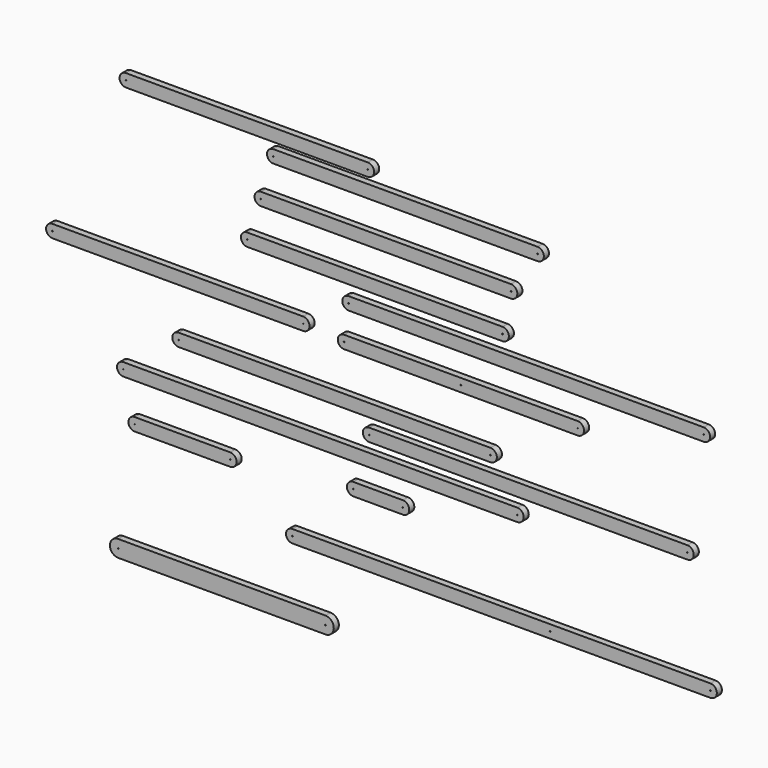
from build123d import *

# Parameters (mm, degrees)
F0_R     = 1.5875
F1_DEPTH = 3.175
F2_DEPTH = 25.4


with BuildPart() as f1:
    # F0 (on Front) → F1 (new body)
    with BuildSketch(Plane.XZ):
        with BuildLine():
            Line((922.116208, 6.153064), (-76.103792, 6.153064))
            ThreePointArc((-76.103792, 6.153064), (-101.503792, -19.246936), (-76.103792, -44.646936))
            Line((-76.103792, -44.646936), (922.116208, -44.646936))
            ThreePointArc((922.116208, -44.646936), (947.516208, -19.246936), (922.116208, 6.153064))
        make_face()
        with Locations((-76.103792, -19.246936)):
            Circle(F0_R, mode=Mode.SUBTRACT)
        with Locations((922.116208, -19.246936)):
            Circle(F0_R, mode=Mode.SUBTRACT)
        with BuildLine():
            Line((1718.410377, -1137.944055), (49.630377, -1137.944055))
            ThreePointArc((49.630377, -1137.944055), (24.230377, -1163.344055), (49.630377, -1188.744055))
            Line((49.630377, -1188.744055), (1718.410377, -1188.744055))
            ThreePointArc((1718.410377, -1188.744055), (1743.810377, -1163.344055), (1718.410377, -1137.944055))
        make_face()
        with Locations((49.630377, -1163.344055)):
            Circle(F0_R, mode=Mode.SUBTRACT)
        with Locations((1078.116298, -1163.344055)):
            Circle(F0_R, mode=Mode.SUBTRACT)
        with Locations((1718.410377, -1163.344055)):
            Circle(F0_R, mode=Mode.SUBTRACT)
        with BuildLine():
            Line((350.468245, 247.915866), (-614.731755, 247.915866))
            ThreePointArc((-614.731755, 247.915866), (-640.131755, 222.515866), (-614.731755, 197.115866))
            Line((-614.731755, 197.115866), (350.468245, 197.115866))
            ThreePointArc((350.468245, 197.115866), (375.868245, 222.515866), (350.468245, 247.915866))
        make_face()
        with Locations((-614.731755, 222.515866)):
            Circle(F0_R, mode=Mode.SUBTRACT)
        with Locations((350.468245, 222.515866)):
            Circle(F0_R, mode=Mode.SUBTRACT)
        with BuildLine():
            Line((1188.303874, -388.398541), (256.123874, -388.398541))
            ThreePointArc((256.123874, -388.398541), (230.723874, -413.798541), (256.123874, -439.198541))
            Line((256.123874, -439.198541), (1188.303874, -439.198541))
            ThreePointArc((1188.303874, -439.198541), (1213.703874, -413.798541), (1188.303874, -388.398541))
        make_face()
        with Locations((256.123874, -413.798541)):
            Circle(F0_R, mode=Mode.SUBTRACT)
        with Locations((722.213874, -413.798541)):
            Circle(F0_R, mode=Mode.SUBTRACT)
        with Locations((1188.303874, -413.798541)):
            Circle(F0_R, mode=Mode.SUBTRACT)
        with BuildLine():
            Line((1691.39721, -246.759249), (274.07721, -246.759249))
            ThreePointArc((274.07721, -246.759249), (248.67721, -272.159249), (274.07721, -297.559249))
            Line((274.07721, -297.559249), (1691.39721, -297.559249))
            ThreePointArc((1691.39721, -297.559249), (1716.79721, -272.159249), (1691.39721, -246.759249))
        make_face()
        with Locations((274.07721, -272.159249)):
            Circle(F0_R, mode=Mode.SUBTRACT)
        with Locations((1691.39721, -272.159249)):
            Circle(F0_R, mode=Mode.SUBTRACT)
        with BuildLine():
            Line((1626.254551, -682.165784), (356.254551, -682.165784))
            ThreePointArc((356.254551, -682.165784), (330.854551, -707.565784), (356.254551, -732.965784))
            Line((356.254551, -732.965784), (1626.254551, -732.965784))
            ThreePointArc((1626.254551, -732.965784), (1651.654551, -707.565784), (1626.254551, -682.165784))
        make_face()
        with Locations((356.254551, -707.565784)):
            Circle(F0_R, mode=Mode.SUBTRACT)
        with Locations((1626.254551, -707.565784)):
            Circle(F0_R, mode=Mode.SUBTRACT)
        with BuildLine():
            Line((947.399896, -770.992858), (-624.860104, -770.992858))
            ThreePointArc((-624.860104, -770.992858), (-650.260104, -796.392858), (-624.860104, -821.792858))
            Line((-624.860104, -821.792858), (947.399896, -821.792858))
            ThreePointArc((947.399896, -821.792858), (972.799896, -796.392858), (947.399896, -770.992858))
        make_face()
        with Locations((-624.860104, -796.392858)):
            Circle(F0_R, mode=Mode.SUBTRACT)
        with Locations((947.399896, -796.392858)):
            Circle(F0_R, mode=Mode.SUBTRACT)
        with BuildLine():
            Line((-198.384942, -949.34128), (-579.384942, -949.34128))
            ThreePointArc((-579.384942, -949.34128), (-604.784942, -974.74128), (-579.384942, -1000.14128))
            Line((-579.384942, -1000.14128), (-198.384942, -1000.14128))
            ThreePointArc((-198.384942, -1000.14128), (-172.984942, -974.74128), (-198.384942, -949.34128))
        make_face()
        with Locations((-579.384942, -974.74128)):
            Circle(F0_R, mode=Mode.SUBTRACT)
        with Locations((-198.384942, -974.74128)):
            Circle(F0_R, mode=Mode.SUBTRACT)
        with BuildLine():
            Line((92.725277, -377.313686), (-908.034723, -377.313686))
            ThreePointArc((-908.034723, -377.313686), (-933.434723, -402.713686), (-908.034723, -428.113686))
            Line((-908.034723, -428.113686), (92.725277, -428.113686))
            ThreePointArc((92.725277, -428.113686), (118.125277, -402.713686), (92.725277, -377.313686))
        make_face()
        with Locations((-908.034723, -402.713686)):
            Circle(F0_R, mode=Mode.SUBTRACT)
        with Locations((92.725277, -402.713686)):
            Circle(F0_R, mode=Mode.SUBTRACT)
        with BuildLine():
            Line((490.654146, -893.466813), (292.534146, -893.466813))
            ThreePointArc((292.534146, -893.466813), (267.134146, -918.866813), (292.534146, -944.266813))
            Line((292.534146, -944.266813), (490.654146, -944.266813))
            ThreePointArc((490.654146, -944.266813), (516.054146, -918.866813), (490.654146, -893.466813))
        make_face()
        with Locations((292.534146, -918.866813)):
            Circle(F0_R, mode=Mode.SUBTRACT)
        with Locations((490.654146, -918.866813)):
            Circle(F0_R, mode=Mode.SUBTRACT)
        with BuildLine():
            Line((1027.878222, 172.011541), (-26.221778, 172.011541))
            ThreePointArc((-26.221778, 172.011541), (-51.621778, 146.611541), (-26.221778, 121.211541))
            Line((-26.221778, 121.211541), (1027.878222, 121.211541))
            ThreePointArc((1027.878222, 121.211541), (1053.278222, 146.611541), (1027.878222, 172.011541))
        make_face()
        with Locations((-26.221778, 146.611541)):
            Circle(F0_R, mode=Mode.SUBTRACT)
        with Locations((1027.878222, 146.611541)):
            Circle(F0_R, mode=Mode.SUBTRACT)
        with BuildLine():
            Line((840.33685, -595.6289), (-404.26315, -595.6289))
            ThreePointArc((-404.26315, -595.6289), (-429.66315, -621.0289), (-404.26315, -646.4289))
            Line((-404.26315, -646.4289), (840.33685, -646.4289))
            ThreePointArc((840.33685, -646.4289), (865.73685, -621.0289), (840.33685, -595.6289))
        make_face()
        with Locations((-404.26315, -621.0289)):
            Circle(F0_R, mode=Mode.SUBTRACT)
        with Locations((840.33685, -621.0289)):
            Circle(F0_R, mode=Mode.SUBTRACT)
        with BuildLine():
            Line((888.23221, -154.656468), (-130.30779, -154.656468))
            ThreePointArc((-130.30779, -154.656468), (-155.70779, -180.056468), (-130.30779, -205.456468))
            Line((-130.30779, -205.456468), (888.23221, -205.456468))
            ThreePointArc((888.23221, -205.456468), (913.63221, -180.056468), (888.23221, -154.656468))
        make_face()
        with Locations((-130.30779, -180.056468)):
            Circle(F0_R, mode=Mode.SUBTRACT)
        with Locations((888.23221, -180.056468)):
            Circle(F0_R, mode=Mode.SUBTRACT)
    extrude(amount=F1_DEPTH)


with BuildPart() as f2:
    # F0 (on Front) → F2 (new body)
    with BuildSketch(Plane.XZ):
        with BuildLine():
            Line((922.116208, 6.153064), (-76.103792, 6.153064))
            ThreePointArc((-76.103792, 6.153064), (-101.503792, -19.246936), (-76.103792, -44.646936))
            Line((-76.103792, -44.646936), (922.116208, -44.646936))
            ThreePointArc((922.116208, -44.646936), (947.516208, -19.246936), (922.116208, 6.153064))
        make_face()
        with Locations((-76.103792, -19.246936)):
            Circle(F0_R, mode=Mode.SUBTRACT)
        with Locations((922.116208, -19.246936)):
            Circle(F0_R, mode=Mode.SUBTRACT)
        with BuildLine():
            Line((840.33685, -595.6289), (-404.26315, -595.6289))
            ThreePointArc((-404.26315, -595.6289), (-429.66315, -621.0289), (-404.26315, -646.4289))
            Line((-404.26315, -646.4289), (840.33685, -646.4289))
            ThreePointArc((840.33685, -646.4289), (865.73685, -621.0289), (840.33685, -595.6289))
        make_face()
        with Locations((-404.26315, -621.0289)):
            Circle(F0_R, mode=Mode.SUBTRACT)
        with Locations((840.33685, -621.0289)):
            Circle(F0_R, mode=Mode.SUBTRACT)
        with BuildLine():
            Line((1691.39721, -246.759249), (274.07721, -246.759249))
            ThreePointArc((274.07721, -246.759249), (248.67721, -272.159249), (274.07721, -297.559249))
            Line((274.07721, -297.559249), (1691.39721, -297.559249))
            ThreePointArc((1691.39721, -297.559249), (1716.79721, -272.159249), (1691.39721, -246.759249))
        make_face()
        with Locations((274.07721, -272.159249)):
            Circle(F0_R, mode=Mode.SUBTRACT)
        with Locations((1691.39721, -272.159249)):
            Circle(F0_R, mode=Mode.SUBTRACT)
        with BuildLine():
            Line((350.468245, 247.915866), (-614.731755, 247.915866))
            ThreePointArc((-614.731755, 247.915866), (-640.131755, 222.515866), (-614.731755, 197.115866))
            Line((-614.731755, 197.115866), (350.468245, 197.115866))
            ThreePointArc((350.468245, 197.115866), (375.868245, 222.515866), (350.468245, 247.915866))
        make_face()
        with Locations((-614.731755, 222.515866)):
            Circle(F0_R, mode=Mode.SUBTRACT)
        with Locations((350.468245, 222.515866)):
            Circle(F0_R, mode=Mode.SUBTRACT)
        with BuildLine():
            Line((1027.878222, 172.011541), (-26.221778, 172.011541))
            ThreePointArc((-26.221778, 172.011541), (-51.621778, 146.611541), (-26.221778, 121.211541))
            Line((-26.221778, 121.211541), (1027.878222, 121.211541))
            ThreePointArc((1027.878222, 121.211541), (1053.278222, 146.611541), (1027.878222, 172.011541))
        make_face()
        with Locations((-26.221778, 146.611541)):
            Circle(F0_R, mode=Mode.SUBTRACT)
        with Locations((1027.878222, 146.611541)):
            Circle(F0_R, mode=Mode.SUBTRACT)
        with BuildLine():
            Line((888.23221, -154.656468), (-130.30779, -154.656468))
            ThreePointArc((-130.30779, -154.656468), (-155.70779, -180.056468), (-130.30779, -205.456468))
            Line((-130.30779, -205.456468), (888.23221, -205.456468))
            ThreePointArc((888.23221, -205.456468), (913.63221, -180.056468), (888.23221, -154.656468))
        make_face()
        with Locations((-130.30779, -180.056468)):
            Circle(F0_R, mode=Mode.SUBTRACT)
        with Locations((888.23221, -180.056468)):
            Circle(F0_R, mode=Mode.SUBTRACT)
        with BuildLine():
            Line((92.725277, -377.313686), (-908.034723, -377.313686))
            ThreePointArc((-908.034723, -377.313686), (-933.434723, -402.713686), (-908.034723, -428.113686))
            Line((-908.034723, -428.113686), (92.725277, -428.113686))
            ThreePointArc((92.725277, -428.113686), (118.125277, -402.713686), (92.725277, -377.313686))
        make_face()
        with Locations((-908.034723, -402.713686)):
            Circle(F0_R, mode=Mode.SUBTRACT)
        with Locations((92.725277, -402.713686)):
            Circle(F0_R, mode=Mode.SUBTRACT)
        with BuildLine():
            Line((1718.410377, -1137.944055), (49.630377, -1137.944055))
            ThreePointArc((49.630377, -1137.944055), (24.230377, -1163.344055), (49.630377, -1188.744055))
            Line((49.630377, -1188.744055), (1718.410377, -1188.744055))
            ThreePointArc((1718.410377, -1188.744055), (1743.810377, -1163.344055), (1718.410377, -1137.944055))
        make_face()
        with Locations((49.630377, -1163.344055)):
            Circle(F0_R, mode=Mode.SUBTRACT)
        with Locations((1078.116298, -1163.344055)):
            Circle(F0_R, mode=Mode.SUBTRACT)
        with Locations((1718.410377, -1163.344055)):
            Circle(F0_R, mode=Mode.SUBTRACT)
        with BuildLine():
            Line((947.399896, -770.992858), (-624.860104, -770.992858))
            ThreePointArc((-624.860104, -770.992858), (-650.260104, -796.392858), (-624.860104, -821.792858))
            Line((-624.860104, -821.792858), (947.399896, -821.792858))
            ThreePointArc((947.399896, -821.792858), (972.799896, -796.392858), (947.399896, -770.992858))
        make_face()
        with Locations((-624.860104, -796.392858)):
            Circle(F0_R, mode=Mode.SUBTRACT)
        with Locations((947.399896, -796.392858)):
            Circle(F0_R, mode=Mode.SUBTRACT)
        with BuildLine():
            Line((490.654146, -893.466813), (292.534146, -893.466813))
            ThreePointArc((292.534146, -893.466813), (267.134146, -918.866813), (292.534146, -944.266813))
            Line((292.534146, -944.266813), (490.654146, -944.266813))
            ThreePointArc((490.654146, -944.266813), (516.054146, -918.866813), (490.654146, -893.466813))
        make_face()
        with Locations((292.534146, -918.866813)):
            Circle(F0_R, mode=Mode.SUBTRACT)
        with Locations((490.654146, -918.866813)):
            Circle(F0_R, mode=Mode.SUBTRACT)
        with BuildLine():
            Line((-198.384942, -949.34128), (-579.384942, -949.34128))
            ThreePointArc((-579.384942, -949.34128), (-604.784942, -974.74128), (-579.384942, -1000.14128))
            Line((-579.384942, -1000.14128), (-198.384942, -1000.14128))
            ThreePointArc((-198.384942, -1000.14128), (-172.984942, -974.74128), (-198.384942, -949.34128))
        make_face()
        with Locations((-579.384942, -974.74128)):
            Circle(F0_R, mode=Mode.SUBTRACT)
        with Locations((-198.384942, -974.74128)):
            Circle(F0_R, mode=Mode.SUBTRACT)
        with BuildLine():
            Line((1626.254551, -682.165784), (356.254551, -682.165784))
            ThreePointArc((356.254551, -682.165784), (330.854551, -707.565784), (356.254551, -732.965784))
            Line((356.254551, -732.965784), (1626.254551, -732.965784))
            ThreePointArc((1626.254551, -732.965784), (1651.654551, -707.565784), (1626.254551, -682.165784))
        make_face()
        with Locations((356.254551, -707.565784)):
            Circle(F0_R, mode=Mode.SUBTRACT)
        with Locations((1626.254551, -707.565784)):
            Circle(F0_R, mode=Mode.SUBTRACT)
        with BuildLine():
            Line((1188.303874, -388.398541), (256.123874, -388.398541))
            ThreePointArc((256.123874, -388.398541), (230.723874, -413.798541), (256.123874, -439.198541))
            Line((256.123874, -439.198541), (1188.303874, -439.198541))
            ThreePointArc((1188.303874, -439.198541), (1213.703874, -413.798541), (1188.303874, -388.398541))
        make_face()
        with Locations((256.123874, -413.798541)):
            Circle(F0_R, mode=Mode.SUBTRACT)
        with Locations((722.213874, -413.798541)):
            Circle(F0_R, mode=Mode.SUBTRACT)
        with Locations((1188.303874, -413.798541)):
            Circle(F0_R, mode=Mode.SUBTRACT)
        with BuildLine():
            Line((181.607077, -1399.149895), (-645.503283, -1399.149895))
            ThreePointArc((-645.503283, -1399.149895), (-678.724587, -1432.371199), (-645.503283, -1465.592504))
            Line((-645.503283, -1465.592504), (181.607077, -1465.592504))
            ThreePointArc((181.607077, -1465.592504), (214.828382, -1432.371199), (181.607077, -1399.149895))
        make_face()
        with Locations((-645.503283, -1432.371199)):
            Circle(F0_R, mode=Mode.SUBTRACT)
        with Locations((181.607077, -1432.371199)):
            Circle(F0_R, mode=Mode.SUBTRACT)
    extrude(amount=F2_DEPTH)


solid = Compound([f1.part, f2.part])
